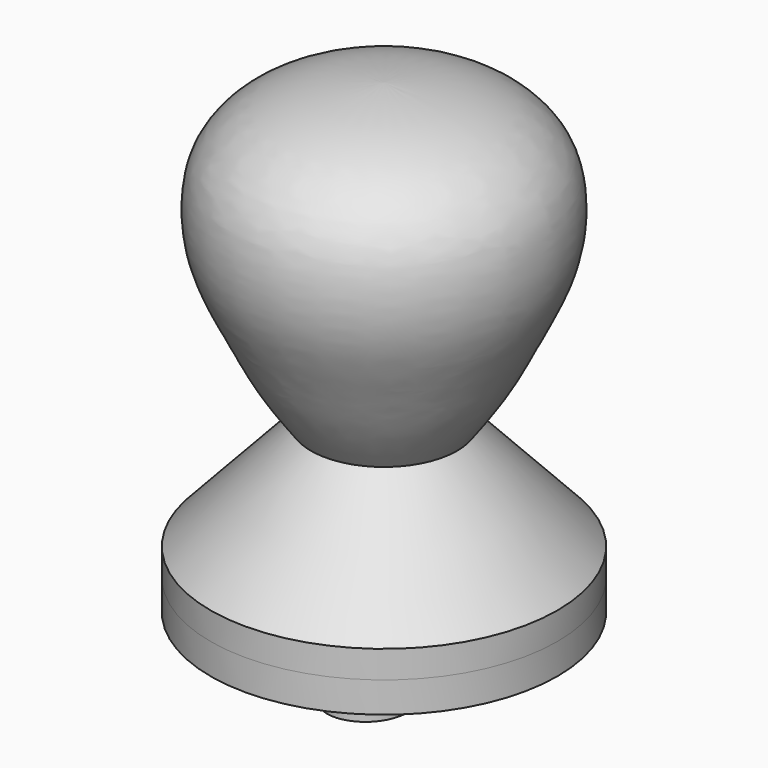
from build123d import *

# Parameters (mm, degrees)
F0_W     = 5.5296500213
F0_H     = 3.9341012016
F5_DEPTH = 2.5


with BuildPart() as f1:
    # F0 (on Front) → F1 (revolve)
    with BuildSketch(Plane.XZ):
        with BuildLine():
            add(Edge.make_bspline(
                [(0, 52.6085272059), (8.0969133708, 52.3598653981), (13.9850632461, 48.6894627646), (15.7122870822, 43.3676331137), (15.3660860131, 37.4478099484), (11.7404159899, 30.7068991912), (10.0975721345, 27.0805168881), (7.171381738, 23.1789313257)],
                knots=[0, 0, 0, 0, 0.2717353896, 0.4238403652, 0.5938174734, 0.7803949924, 1, 1, 1, 1], degree=3))
            Line((0, 52.6085272059), (0, 16.5426284075))
            Line((0, 16.5426284075), (5.5296500213, 16.5426284075))
            Line((5.5296500213, 16.5426284075), (5.5296500213, 12.6085272059))
            Line((5.5296500213, 12.6085272059), (17, 12.6085272059))
            Line((17, 12.6085272059), (7.171381738, 23.1789313257))
        make_face()
        with Locations((2.7648250107, 14.5755778067)):
            Rectangle(F0_W, F0_H)
        Polygon((17, 9.7592128441), (17, 12.6085272059), (5.5296500213, 12.6085272059), (0, 12.6085272059), (0, 9.7592128441), align=None)
    revolve(axis=Axis((0, 0, 32.6085272059), (0, 0, 1)))


with BuildPart() as f3:
    # F2 (on Front) → F3 (revolve)
    with BuildSketch(Plane.XZ):
        Polygon((0, 13.9259791635), (0, 6.9259791635), (17, 6.9259791635), (17, 9.9259791635), (6.2376260757, 9.9259791635), (6.2376260757, 13.9259791635), align=None)
    revolve(axis=Axis((0, 0, 10.4259791635), (0, 0, -1)))

    # F4 (on face) → F5 (join)
    with BuildSketch(Plane(origin=(0, 0, 6.9259791635), x_dir=(1, 0, 0), z_dir=(0, 0, -1))):
        with BuildLine():
            add(Edge.make_bspline(
                [(-13.9331500977, 0), (-13.7240467591, -2.646177398), (-10.7327491905, -11.4070922202), (3.3376403739, -16.2016848075), (12.1549927601, -7.4600439651), (14.2111478844, 1.8845673511), (9.4819888205, 1.8321800188), (8.1523377343, -6.100800358), (1.9007832979, -10.773350693), (-6.6347842705, -8.2796735174), (-10.1519015361, -2.3949516691), (-9.642445129, 1.724407265), (-13.6422180219, 3.1930512711), (-14.0359406393, 1.3008018408), (-13.9331500977, 0)],
                knots=[0, 0, 0, 0, 0.1076660541, 0.2248579565, 0.3365003978, 0.4270379187, 0.4769670563, 0.5655707495, 0.653009556, 0.7458017836, 0.8289553214, 0.8919122838, 0.947073767, 1, 1, 1, 1], degree=3))
        make_face()
        with BuildLine():
            add(Edge.make_bspline(
                [(-7.0901024831, 11.2470243104), (-8.3920551092, 10.0103482171), (-9.3701068116, 4.7341492378), (-1.5044548851, 3.6518268396), (-0.5456373546, 9.6192452613), (-2.6939283574, 12.3283483648), (-5.9553557799, 12.3248777526), (-7.0901024831, 11.2470243104)],
                knots=[0, 0, 0, 0, 0.2202665612, 0.4380381104, 0.642248234, 0.8080216215, 1, 1, 1, 1], degree=3))
        make_face()
        with BuildLine():
            add(Edge.make_bspline(
                [(3.1807299238, 11.7400977761), (2.117501865, 11.1013602734), (0.330876565, 8.3488648999), (2.8401974456, 3.395484492), (8.6746849496, 4.1336821149), (9.2350308766, 9.6951448203), (6.3468354068, 12.366329581), (4.1047398796, 12.2951995782), (3.1807299238, 11.7400977761)],
                knots=[0, 0, 0, 0, 0.1663155685, 0.3445795468, 0.5206570716, 0.6987470374, 0.8554616389, 1, 1, 1, 1], degree=3))
        make_face()
    extrude(amount=F5_DEPTH)


with BuildPart() as f1_1:
    add(f1.part)

    # F6: cut F3
    add(f3.part, mode=Mode.SUBTRACT)


solid = Compound([f3.part, f1_1.part])
